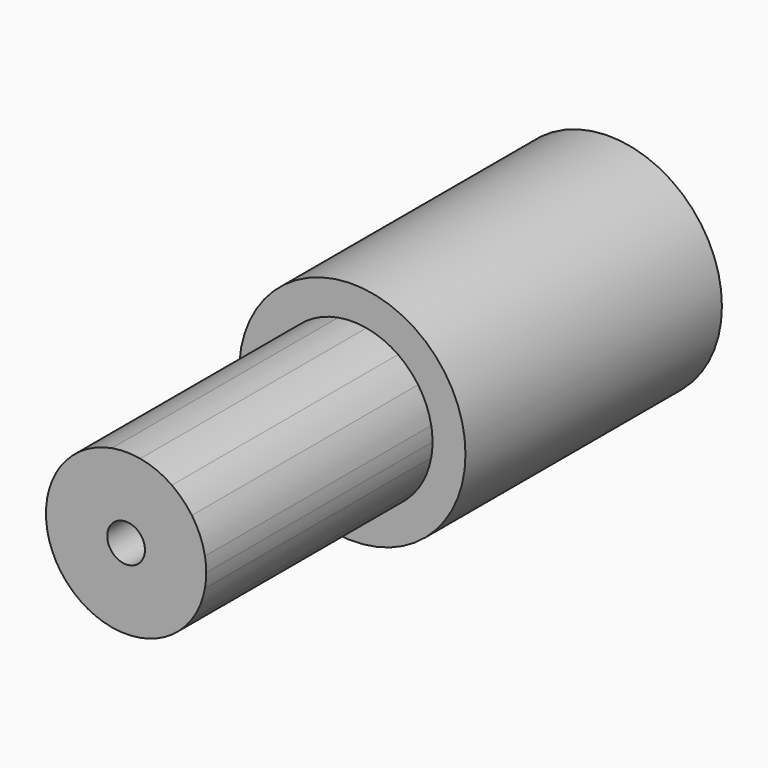
from build123d import *

# Parameters (mm, degrees)
F0_R          = 6
F1_DEPTH      = 17
F0_R_2        = 2.5
F0_R_3        = 1
F2_DEPTH      = 15
F2_DEPTH_BACK = 3


with BuildPart() as f1:
    # F0 (on Front) → F1 (new body)
    with BuildSketch(Plane.XZ):
        Circle(F0_R)
        with BuildLine():
            ThreePointArc((4.183153, 0.75082), (4.233255, 0.376895), (4.25, 0))
            ThreePointArc((4.25, 0), (4.233255, -0.376895), (4.183153, -0.75082))
            ThreePointArc((4.183153, -0.75082), (3.926488, -1.626405), (3.488846, -2.427026))
            ThreePointArc((3.488846, -2.427026), (3.005204, -3.005204), (2.427026, -3.488846))
            ThreePointArc((2.427026, -3.488846), (1.626405, -3.926488), (0.75082, -4.183153))
            ThreePointArc((0.75082, -4.183153), (0, -4.25), (-0.75082, -4.183153))
            ThreePointArc((-0.75082, -4.183153), (-1.626405, -3.926488), (-2.427026, -3.488846))
            ThreePointArc((-2.427026, -3.488846), (-3.005204, -3.005204), (-3.488846, -2.427026))
            ThreePointArc((-3.488846, -2.427026), (-3.926488, -1.626405), (-4.183153, -0.75082))
            ThreePointArc((-4.183153, -0.75082), (-4.25, 0), (-4.183153, 0.75082))
            ThreePointArc((-4.183153, 0.75082), (-3.926488, 1.626405), (-3.488846, 2.427026))
            ThreePointArc((-3.488846, 2.427026), (-3.005204, 3.005204), (-2.427026, 3.488846))
            ThreePointArc((-2.427026, 3.488846), (-1.626405, 3.926488), (-0.75082, 4.183153))
            ThreePointArc((-0.75082, 4.183153), (0, 4.25), (0.75082, 4.183153))
            ThreePointArc((0.75082, 4.183153), (1.626405, 3.926488), (2.427026, 3.488846))
            ThreePointArc((2.427026, 3.488846), (3.005204, 3.005204), (3.488846, 2.427026))
            ThreePointArc((3.488846, 2.427026), (3.926488, 1.626405), (4.183153, 0.75082))
        make_face(mode=Mode.SUBTRACT)
        with BuildLine():
            ThreePointArc((4.183153, -0.75082), (4.233255, -0.376895), (4.25, 0))
            ThreePointArc((4.25, 0), (4.233255, 0.376895), (4.183153, 0.75082))
            ThreePointArc((4.183153, 0.75082), (3.496211, 0), (4.183153, -0.75082))
        make_face()
        with BuildLine():
            ThreePointArc((2.427026, 3.488846), (2.472194, 2.472194), (3.488846, 2.427026))
            ThreePointArc((3.488846, 2.427026), (3.005204, 3.005204), (2.427026, 3.488846))
        make_face()
        with BuildLine():
            ThreePointArc((-0.75082, 4.183153), (0, 3.496211), (0.75082, 4.183153))
            ThreePointArc((0.75082, 4.183153), (0, 4.25), (-0.75082, 4.183153))
        make_face()
        with BuildLine():
            ThreePointArc((-3.488846, 2.427026), (-2.472194, 2.472194), (-2.427026, 3.488846))
            ThreePointArc((-2.427026, 3.488846), (-3.005204, 3.005204), (-3.488846, 2.427026))
        make_face()
        with BuildLine():
            ThreePointArc((-4.183153, -0.75082), (-3.496211, 0), (-4.183153, 0.75082))
            ThreePointArc((-4.183153, 0.75082), (-4.25, 0), (-4.183153, -0.75082))
        make_face()
        with BuildLine():
            ThreePointArc((-3.488846, -2.427026), (-3.005204, -3.005204), (-2.427026, -3.488846))
            ThreePointArc((-2.427026, -3.488846), (-2.472194, -2.472194), (-3.488846, -2.427026))
        make_face()
        with BuildLine():
            ThreePointArc((-0.75082, -4.183153), (0, -4.25), (0.75082, -4.183153))
            ThreePointArc((0.75082, -4.183153), (0, -3.496211), (-0.75082, -4.183153))
        make_face()
        with BuildLine():
            ThreePointArc((2.427026, -3.488846), (3.005204, -3.005204), (3.488846, -2.427026))
            ThreePointArc((3.488846, -2.427026), (2.472194, -2.472194), (2.427026, -3.488846))
        make_face()
    extrude(amount=-F1_DEPTH)

    # F0 (on Front) → F2 (join, two sides)
    with BuildSketch(Plane.XZ) as f2_sk:
        with BuildLine():
            ThreePointArc((4.183153, -0.75082), (3.496211, 0), (4.183153, 0.75082))
            ThreePointArc((4.183153, 0.75082), (3.926488, 1.626405), (3.488846, 2.427026))
            ThreePointArc((3.488846, 2.427026), (2.472194, 2.472194), (2.427026, 3.488846))
            ThreePointArc((2.427026, 3.488846), (1.626405, 3.926488), (0.75082, 4.183153))
            ThreePointArc((0.75082, 4.183153), (0, 3.496211), (-0.75082, 4.183153))
            ThreePointArc((-0.75082, 4.183153), (-1.626405, 3.926488), (-2.427026, 3.488846))
            ThreePointArc((-2.427026, 3.488846), (-2.472194, 2.472194), (-3.488846, 2.427026))
            ThreePointArc((-3.488846, 2.427026), (-3.926488, 1.626405), (-4.183153, 0.75082))
            ThreePointArc((-4.183153, 0.75082), (-3.496211, 0), (-4.183153, -0.75082))
            ThreePointArc((-4.183153, -0.75082), (-3.926488, -1.626405), (-3.488846, -2.427026))
            ThreePointArc((-3.488846, -2.427026), (-2.472194, -2.472194), (-2.427026, -3.488846))
            ThreePointArc((-2.427026, -3.488846), (-1.626405, -3.926488), (-0.75082, -4.183153))
            ThreePointArc((-0.75082, -4.183153), (0, -3.496211), (0.75082, -4.183153))
            ThreePointArc((0.75082, -4.183153), (1.626405, -3.926488), (2.427026, -3.488846))
            ThreePointArc((2.427026, -3.488846), (2.472194, -2.472194), (3.488846, -2.427026))
            ThreePointArc((3.488846, -2.427026), (3.926488, -1.626405), (4.183153, -0.75082))
        make_face()
        Circle(F0_R_2, mode=Mode.SUBTRACT)
        Circle(F0_R_2)
        Circle(F0_R_3, mode=Mode.SUBTRACT)
        with BuildLine():
            ThreePointArc((-3.488846, 2.427026), (-2.472194, 2.472194), (-2.427026, 3.488846))
            ThreePointArc((-2.427026, 3.488846), (-3.005204, 3.005204), (-3.488846, 2.427026))
        make_face()
        with BuildLine():
            ThreePointArc((-4.183153, -0.75082), (-3.496211, 0), (-4.183153, 0.75082))
            ThreePointArc((-4.183153, 0.75082), (-4.25, 0), (-4.183153, -0.75082))
        make_face()
        with BuildLine():
            ThreePointArc((-3.488846, -2.427026), (-3.005204, -3.005204), (-2.427026, -3.488846))
            ThreePointArc((-2.427026, -3.488846), (-2.472194, -2.472194), (-3.488846, -2.427026))
        make_face()
        with BuildLine():
            ThreePointArc((-0.75082, -4.183153), (0, -4.25), (0.75082, -4.183153))
            ThreePointArc((0.75082, -4.183153), (0, -3.496211), (-0.75082, -4.183153))
        make_face()
        with BuildLine():
            ThreePointArc((2.427026, -3.488846), (3.005204, -3.005204), (3.488846, -2.427026))
            ThreePointArc((3.488846, -2.427026), (2.472194, -2.472194), (2.427026, -3.488846))
        make_face()
        with BuildLine():
            ThreePointArc((2.427026, 3.488846), (2.472194, 2.472194), (3.488846, 2.427026))
            ThreePointArc((3.488846, 2.427026), (3.005204, 3.005204), (2.427026, 3.488846))
        make_face()
        with BuildLine():
            ThreePointArc((-0.75082, 4.183153), (0, 3.496211), (0.75082, 4.183153))
            ThreePointArc((0.75082, 4.183153), (0, 4.25), (-0.75082, 4.183153))
        make_face()
        with BuildLine():
            ThreePointArc((4.183153, -0.75082), (4.233255, -0.376895), (4.25, 0))
            ThreePointArc((4.25, 0), (4.233255, 0.376895), (4.183153, 0.75082))
            ThreePointArc((4.183153, 0.75082), (3.496211, 0), (4.183153, -0.75082))
        make_face()
    extrude(amount=F2_DEPTH)
    extrude(f2_sk.sketch, amount=-F2_DEPTH_BACK)


solid = f1.part
